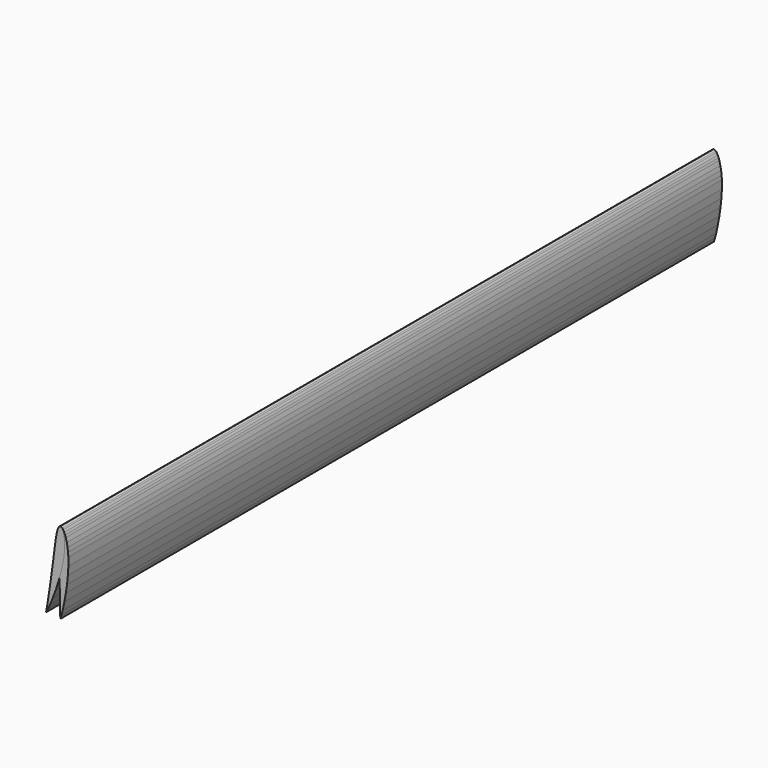
from build123d import *

# Parameters (mm, degrees)
EXTRUDE_DEPTH              = 5
EXTRUDE001_DEPTH           = 5
EXTRUDE001_PLACEMENT_ANGLE = 10


with BuildPart() as extrude_body:
    # Face → Extrude (new body, symmetric)
    with BuildSketch(Plane(origin=(0.031013, 0, -0.420134), x_dir=(1, 0, 0), z_dir=(0, 1, 0))):
        Polygon((-0.003913, 0.479866), (-0.016313, 0.529866), (-0.032313, 0.579866), (-0.032613, 0.529866), (-0.033213, 0.479866), (-0.034913, 0.379866), (-0.037513, 0.279866), (-0.041013, 0.179866), (-0.045013, 0.079866), (-0.049013, -0.020134), (-0.053613, -0.120134), (-0.056013, -0.170134), (-0.058413, -0.220134), (-0.059813, -0.270134), (-0.059613, -0.320134), (-0.058413, -0.345134), (-0.055913, -0.370134), (-0.050513, -0.395134), (-0.045313, -0.407634), (-0.031013, -0.420134), (-0.006613, -0.407634), (0.002887, -0.395134), (0.016287, -0.370134), (0.026587, -0.345134), (0.034887, -0.320134), (0.047887, -0.270134), (0.056987, -0.220134), (0.063087, -0.170134), (0.066587, -0.120134), (0.066987, -0.020134), (0.060887, 0.079866), (0.050387, 0.179866), (0.035887, 0.279866), (0.017887, 0.379866), align=None)
    extrude(amount=EXTRUDE_DEPTH, both=True)


with BuildPart() as extrude001:
    # Face → Extrude001 (new body, symmetric)
    with BuildSketch(Plane(origin=(0.031013, 0, -0.420134), x_dir=(1, 0, 0), z_dir=(0, 1, 0))):
        Polygon((-0.003913, 0.479866), (-0.016313, 0.529866), (-0.032313, 0.579866), (-0.032613, 0.529866), (-0.033213, 0.479866), (-0.034913, 0.379866), (-0.037513, 0.279866), (-0.041013, 0.179866), (-0.045013, 0.079866), (-0.049013, -0.020134), (-0.053613, -0.120134), (-0.056013, -0.170134), (-0.058413, -0.220134), (-0.059813, -0.270134), (-0.059613, -0.320134), (-0.058413, -0.345134), (-0.055913, -0.370134), (-0.050513, -0.395134), (-0.045313, -0.407634), (-0.031013, -0.420134), (-0.006613, -0.407634), (0.002887, -0.395134), (0.016287, -0.370134), (0.026587, -0.345134), (0.034887, -0.320134), (0.047887, -0.270134), (0.056987, -0.220134), (0.063087, -0.170134), (0.066587, -0.120134), (0.066987, -0.020134), (0.060887, 0.079866), (0.050387, 0.179866), (0.035887, 0.279866), (0.017887, 0.379866), align=None)
    extrude(amount=EXTRUDE001_DEPTH, both=True)


with BuildPart() as extrude001_1:
    # Extrude001 placement: moved
    add(extrude001.part.rotate(Axis((0, 0, 0), (0, 1, 0)), EXTRUDE001_PLACEMENT_ANGLE))


solid = Compound([extrude_body.part, extrude001_1.part])
